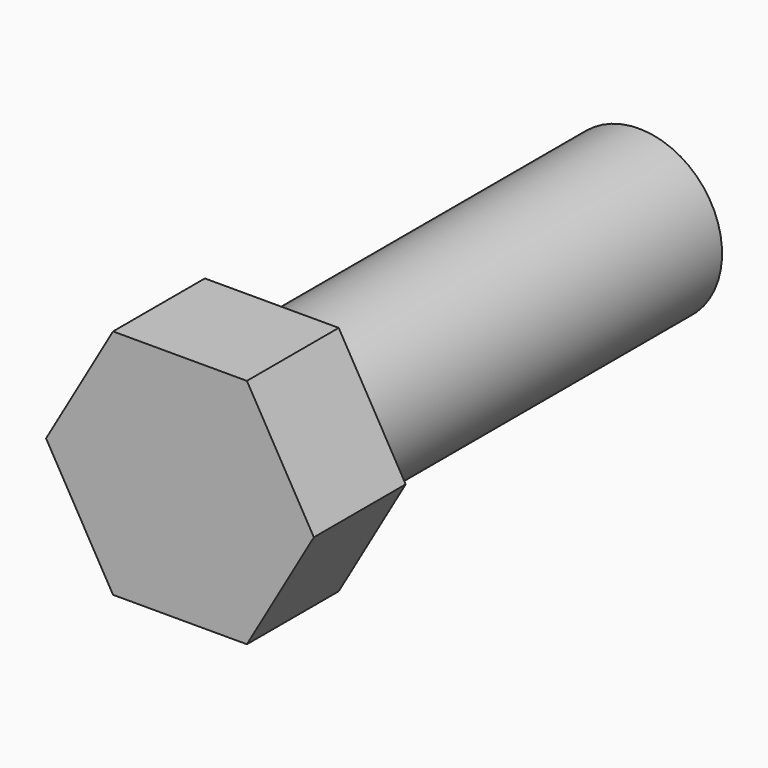
from build123d import *

# Parameters (mm, degrees)
F1_DEPTH = 50.8
F2_R     = 36.742754
F3_DEPTH = 203.2


with BuildPart() as f1:
    # F0 (on Front) → F1 (new body)
    with BuildSketch(Plane.XZ):
        Polygon((-29.628741, -51.318485), (29.628741, -51.318485), (59.257483, 0), (29.628741, 51.318485), (-29.628741, 51.318485), (-59.257483, 0), align=None)
    extrude(amount=F1_DEPTH)

    # F2 (on face) → F3 (join)
    with BuildSketch(Plane(origin=(0, 0, 0), x_dir=(-1, 0, 0), z_dir=(0, 1, 0))):
        Circle(F2_R)
    extrude(amount=F3_DEPTH)


solid = f1.part
